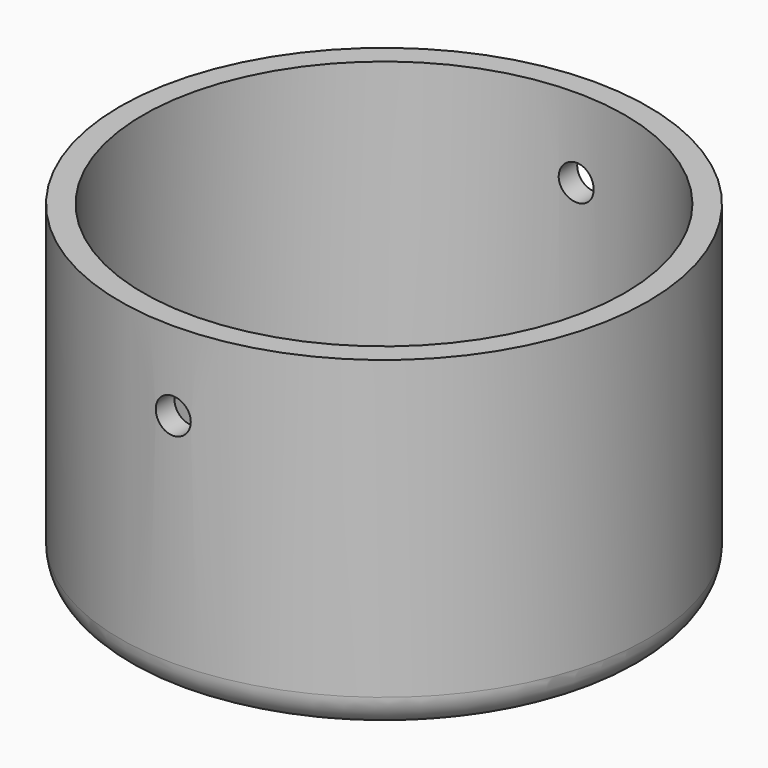
from build123d import *

# Parameters (mm, degrees)
F0_R     = 40
F0_R_2   = 36.5
F1_DEPTH = 5
F2_DEPTH = 50
F3_R     = 2.65
F4_DEPTH = 75
F5_R     = 5


with BuildPart() as f1:
    # F0 (on Top) → F1 (new body)
    with BuildSketch(Plane.XY):
        Circle(F0_R)
        Circle(F0_R_2, mode=Mode.SUBTRACT)
        Circle(F0_R_2)
    extrude(amount=F1_DEPTH)

    # F0 (on Top) → F2 (join)
    with BuildSketch(Plane.XY):
        Circle(F0_R)
        Circle(F0_R_2, mode=Mode.SUBTRACT)
    extrude(amount=F2_DEPTH)

    # F3 (on Front) → F4 (cut, symmetric)
    with BuildSketch(Plane.XZ):
        with Locations((0, 38)):
            Circle(F3_R)
    extrude(amount=F4_DEPTH, both=True, mode=Mode.SUBTRACT)

    # F5
    f5_edges = [f1.edges().sort_by_distance(p)[0] for p in [
        (-40, 0, 0),
    ]]
    fillet(f5_edges, radius=F5_R)


solid = f1.part
